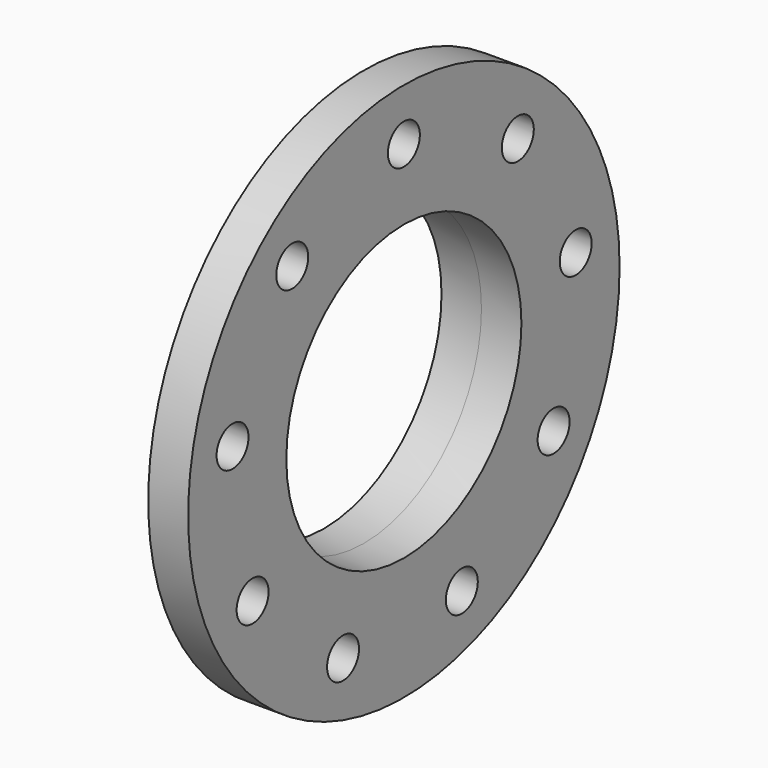
from build123d import *

# Parameters (mm, degrees)
F0_R      = 101.6
F0_R_2    = 93.4212
F3_DEPTH  = 25.4
F4_R      = 171.45
F4_R_2    = 93.4212
F5_DEPTH  = 25.4
F6_SIZE   = 5.08
F7_R      = 12.7
F8_DEPTH  = 457.1692501
F10_R     = 101.6
F10_R_2   = 93.4212
F11_DEPTH = 25.4


with BuildPart() as f2:
    # F2: sweep along a path in F1
    with BuildLine(Plane.XZ) as f2_path:
        ThreePointArc((0, 0), (89.2738530943, 215.5261469057), (304.8, 304.8))
    # F0 (on Top) → F2 (sweep)
    with BuildSketch(Plane.XY):
        Circle(F0_R)
        Circle(F0_R_2, mode=Mode.SUBTRACT)
    sweep(path=f2_path.line)

    # F3 (add): a face of the model
    f3_faces = [f2.faces().sort_by_distance(p)[0] for p in [
        (304.8, 0, 403.5263180413),
    ]]
    extrude(f3_faces, amount=F3_DEPTH)

    # F6
    f6_edges = [f2.edges().sort_by_distance(p)[0] for p in [
        (-101.6, 0, 0),
    ]]
    chamfer(f6_edges, length=F6_SIZE)


with BuildPart() as f5:
    # F4 (on face) → F5 (new body)
    with BuildSketch(Plane.YZ.offset(330.2)):
        with Locations((0, 304.8)):
            Circle(F4_R)
        with Locations((0, 304.8)):
            Circle(F4_R_2, mode=Mode.SUBTRACT)
    extrude(amount=F5_DEPTH)


with BuildPart() as f8_tool:
    # F7 (on face) → F8 (new body, through all)
    with BuildSketch(Plane.YZ.offset(355.6)):
        with Locations((-88.7286911595, 410.9601527047)):
            Circle(F7_R)
        with Locations((0, 443.1573585219)):
            Circle(F7_R)
        with Locations((90.5679274826, 409.3954548185)):
            Circle(F7_R)
        with Locations((136.5689763149, 326.9737088793)):
            Circle(F7_R)
        with Locations((119.0079640377, 234.2318545463)):
            Circle(F7_R)
        with Locations((46.0581534638, 174.3338926898)):
            Circle(F7_R)
        with Locations((-48.328086115, 175.1575889239)):
            Circle(F7_R)
        with Locations((-120.2214225043, 236.3195777744)):
            Circle(F7_R)
        with Locations((-136.1611916187, 329.3537889975)):
            Circle(F7_R)
    extrude(amount=-F8_DEPTH)


with BuildPart() as f2_1:
    add(f2.part)

    # F8: cut by f8_tool
    add(f8_tool.part, mode=Mode.SUBTRACT)


with BuildPart() as f5_1:
    add(f5.part)

    # F8: cut by f8_tool
    add(f8_tool.part, mode=Mode.SUBTRACT)

    # F10 (on face) → F11 (join)
    with BuildSketch(Plane(origin=(330.2, 0, 0), x_dir=(0, -1, 0), z_dir=(-1, 0, 0))):
        with Locations((0, 304.8)):
            Circle(F10_R)
        with Locations((0, 304.8)):
            Circle(F10_R_2, mode=Mode.SUBTRACT)
    extrude(amount=F11_DEPTH)


solid = f5_1.part
